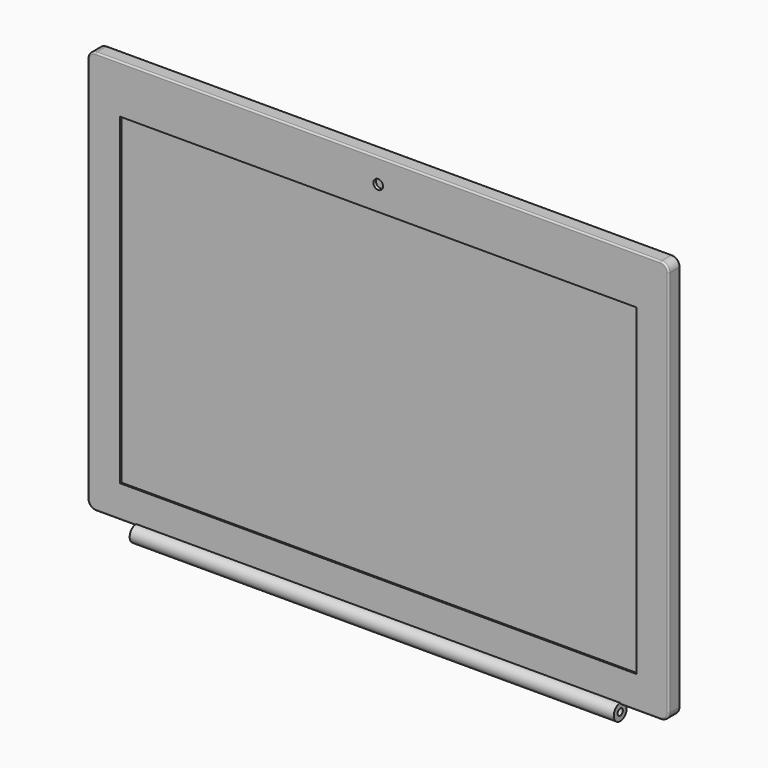
from build123d import *

# Parameters (mm, degrees)
F0_W     = 360
F0_H     = 250
F1_DEPTH = 9
F2_W     = 320
F2_H     = 200
F3_DEPTH = 1
F4_R     = 3
F5_DEPTH = 2
F6_R     = 5
F6_R_2   = 2
F7_DEPTH = 150
F8_R     = 5
F9_R     = 1


with BuildPart() as f1:
    # F0 (on Front) → F1 (new body)
    with BuildSketch(Plane.XZ):
        with Locations((0, 125)):
            Rectangle(F0_W, F0_H)
    extrude(amount=F1_DEPTH)

    # F2 (on face) → F3 (cut)
    with BuildSketch(Plane.XZ.offset(9)):
        with Locations((0, 120)):
            Rectangle(F2_W, F2_H)
    extrude(amount=-F3_DEPTH, mode=Mode.SUBTRACT)

    # F4 (on face) → F5 (cut)
    with BuildSketch(Plane.XZ.offset(9)):
        with Locations((0, 235)):
            Circle(F4_R)
    extrude(amount=-F5_DEPTH, mode=Mode.SUBTRACT)

    # F6 (on Right) → F7 (join, symmetric)
    with BuildSketch(Plane.YZ):
        with Locations((-9, -4)):
            Circle(F6_R)
        with Locations((-9, -4)):
            Circle(F6_R_2, mode=Mode.SUBTRACT)
    extrude(amount=F7_DEPTH, both=True)

    # F8
    f8_edges = [f1.edges().sort_by_distance(p)[0] for p in [
        (180, -4.5, 0),
        (180, -4.5, 250),
        (-180, -4.5, 250),
        (-180, -4.5, 0),
    ]]
    fillet(f8_edges, radius=F8_R)

    # F9
    f9_edges = [f1.edges().sort_by_distance(p)[0] for p in [
        (-180, -9, 125),
        (-180, 0, 125),
    ]]
    fillet(f9_edges, radius=F9_R)


solid = f1.part
